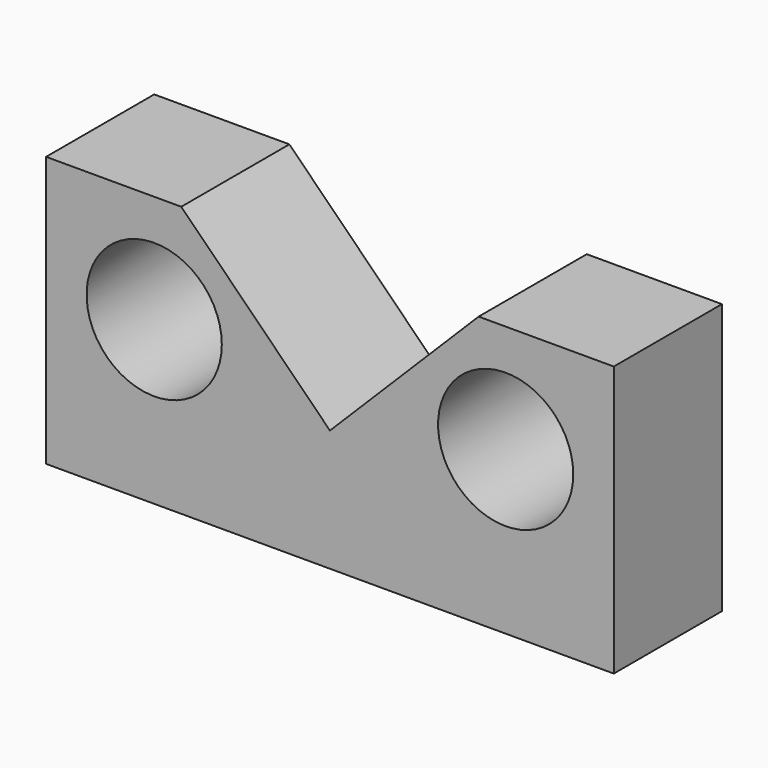
from build123d import *

# Parameters (mm, degrees)
F1_DEPTH = 25
F2_R     = 12.5
F3_DEPTH = 25.001


with BuildPart() as f1:
    # F0 (on Front) → F1 (new body)
    with BuildSketch(Plane.XZ):
        Polygon((0, 50), (0, 0), (105, 0), (105, 50), (80, 50), (52.5, 22.5), (25, 50), align=None)
    extrude(amount=F1_DEPTH)

    # F2 (on face) → F3 (cut, through all)
    with BuildSketch(Plane.XZ.offset(25)):
        with Locations((20, 30)):
            Circle(F2_R)
        with Locations((85, 30)):
            Circle(F2_R)
    extrude(amount=-F3_DEPTH, mode=Mode.SUBTRACT)


solid = f1.part
